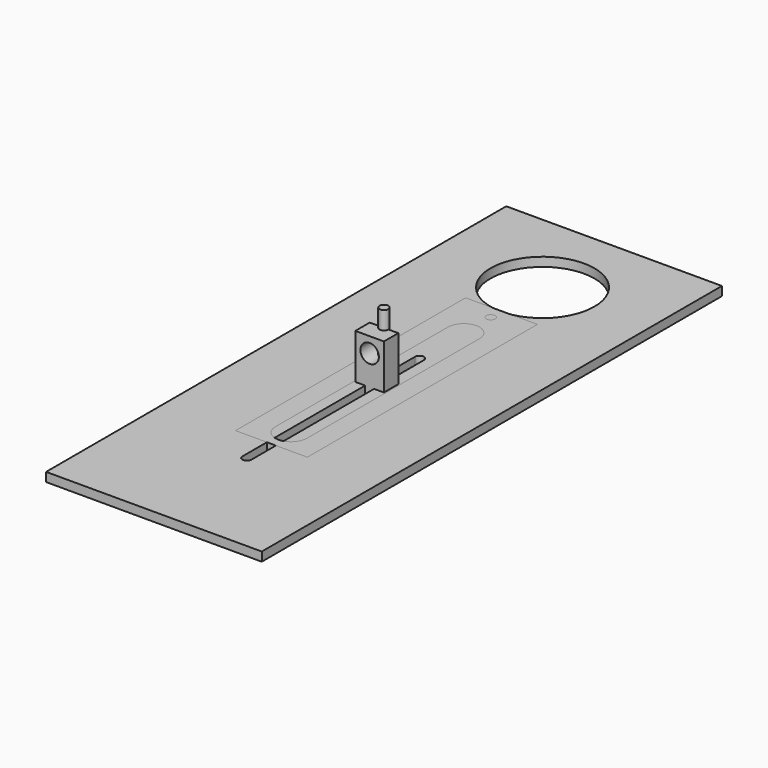
from build123d import *

# Parameters (mm, degrees)
F0_W     = 76.2
F0_H     = 203.2
F0_R     = 18.3515
F1_DEPTH = 3.175
F2_W     = 25.4
F2_H     = 101.6
F2_R     = 1.5875
F3_DEPTH = 3.175
F4_R     = 1.5875
F5_DEPTH = 25.4
F6_W     = 10.0965
F6_H     = 19.05
F7_DEPTH = 6.35
F8_D     = 6.5278


with BuildPart() as f1:
    # F0 (on Top) → F1 (new body)
    with BuildSketch(Plane.XY):
        Rectangle(F0_W, F0_H)
        with BuildLine():
            ThreePointArc((-1.5875, 15.673443675), (0, 17.260943675), (1.5875, 15.673443675))
            Line((1.5875, 15.673443675), (1.5875, -60.526556325))
            ThreePointArc((1.5875, -60.526556325), (0, -62.114056325), (-1.5875, -60.526556325))
            Line((-1.5875, -60.526556325), (-1.5875, 15.673443675))
        make_face(mode=Mode.SUBTRACT)
        with Locations((0, 69.9895162783)):
            Circle(F0_R, mode=Mode.SUBTRACT)
    extrude(amount=F1_DEPTH)


with BuildPart() as f3:
    # F2 (on Top) → F3 (new body)
    with BuildSketch(Plane.XY):
        with Locations((0, 1.0766318619)):
            Rectangle(F2_W, F2_H)
        with BuildLine():
            ThreePointArc((-5.55625, 35.2078818619), (0, 40.7641318619), (5.55625, 35.2078818619))
            Line((5.55625, 35.2078818619), (5.55625, -40.9921181381))
            ThreePointArc((5.55625, -40.9921181381), (0, -46.5483681381), (-5.55625, -40.9921181381))
            Line((-5.55625, -40.9921181381), (-5.55625, 35.2078818619))
        make_face(mode=Mode.SUBTRACT)
        with Locations((0, 47.1141318619)):
            Circle(F2_R, mode=Mode.SUBTRACT)
    extrude(amount=F3_DEPTH)


with BuildPart() as f5:
    # F4 (on Top) → F5 (new body)
    with BuildSketch(Plane.XY):
        Circle(F4_R)
    extrude(amount=F5_DEPTH)


with BuildPart() as f7:
    # F6 (on Front) → F7 (new body)
    with BuildSketch(Plane.XZ):
        with Locations((0, 9.525)):
            Rectangle(F6_W, F6_H)
    extrude(amount=F7_DEPTH)

    # F8 (through all)
    with Locations(Plane(origin=(0, 0, 0), x_dir=(1, 0, 0), z_dir=(0, 1, 0))):
        with Locations((0, -13.6809640511)):
            Hole(F8_D / 2)


solid = Compound([f1.part, f3.part, f5.part, f7.part])
